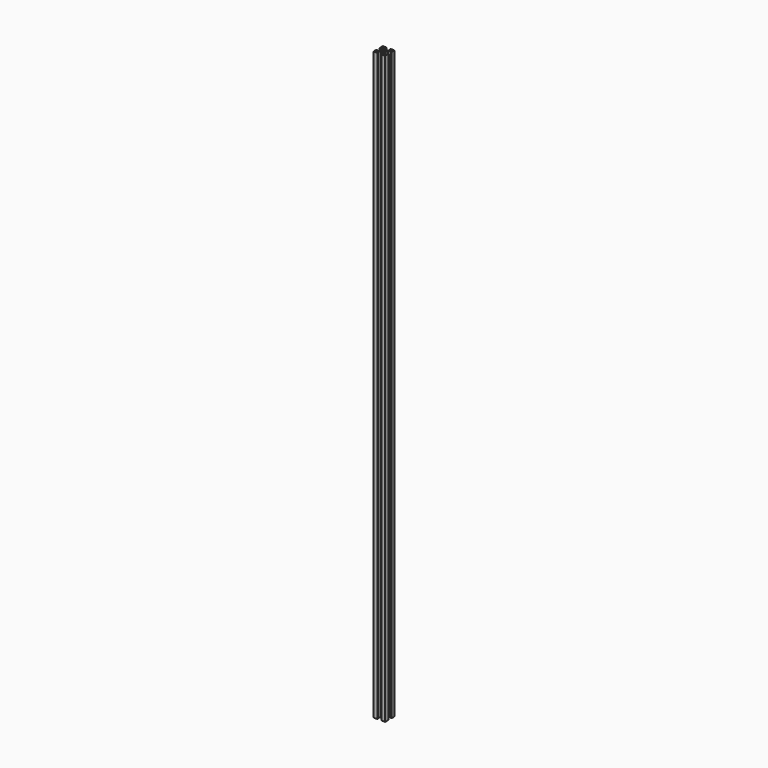
from build123d import *

# Parameters (mm, degrees)
F0_R     = 3.5
F1_DEPTH = 1498


with BuildPart() as f1:
    # F0 (on Top) → F1 (new body)
    with BuildSketch(Plane.XY):
        Polygon((4.585786, 6), (-4.585786, 6), (-10, 11.414214), (-10, 13), (-5, 13), (-5, 15), (-15, 15), (-15, 5), (-13, 5), (-13, 10), (-11.414214, 10), (-6, 4.585786), (-6, -4.585786), (-11.414214, -10), (-13, -10), (-13, -5), (-15, -5), (-15, -15), (-5, -15), (-5, -13), (-10, -13), (-10, -11.414214), (-4.585786, -6), (4.585786, -6), (9.999999, -11.414215), (9.999999, -13.000001), (4.999999, -13.000001), (4.999999, -15.000001), (14.999999, -15.000001), (14.999999, -5.000001), (12.999999, -5.000001), (12.999999, -10.000001), (11.414212, -10.000001), (6, -4.585786), (6, 4.585786), (11.414212, 10.000001), (12.999999, 10.000001), (12.999999, 5.000001), (14.999999, 5.000001), (14.999999, 15.000001), (4.999999, 15.000001), (4.999999, 13.000001), (9.999999, 13.000001), (9.999999, 11.414215), align=None)
        Circle(F0_R, mode=Mode.SUBTRACT)
    extrude(amount=F1_DEPTH)


solid = f1.part
